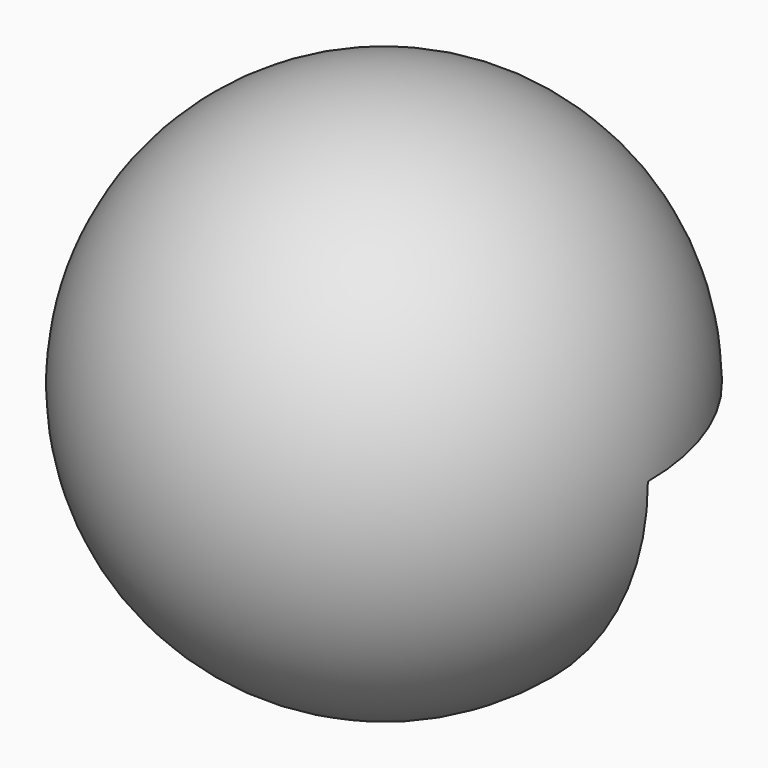
from build123d import *

# Parameters (mm, degrees)
F1_ANGLE = 270
F2_T     = -5


with BuildPart() as f1:
    # F0 (on Top) → F1 (revolve)
    with BuildSketch(Plane.XY):
        with BuildLine():
            Line((-44.912674, 0), (44.912674, 0))
            ThreePointArc((44.912674, 0), (0, 44.912674), (-44.912674, 0))
        make_face()
    revolve(axis=Axis((0, 0, 0), (1, 0, 0)), revolution_arc=F1_ANGLE)

    # F2
    f2_openings = [f1.faces().sort_by_distance(p)[0] for p in [
        (0, 0, -19.061531),
        (0, 19.061531, 0),
    ]]
    offset(amount=F2_T, openings=f2_openings)


solid = f1.part
